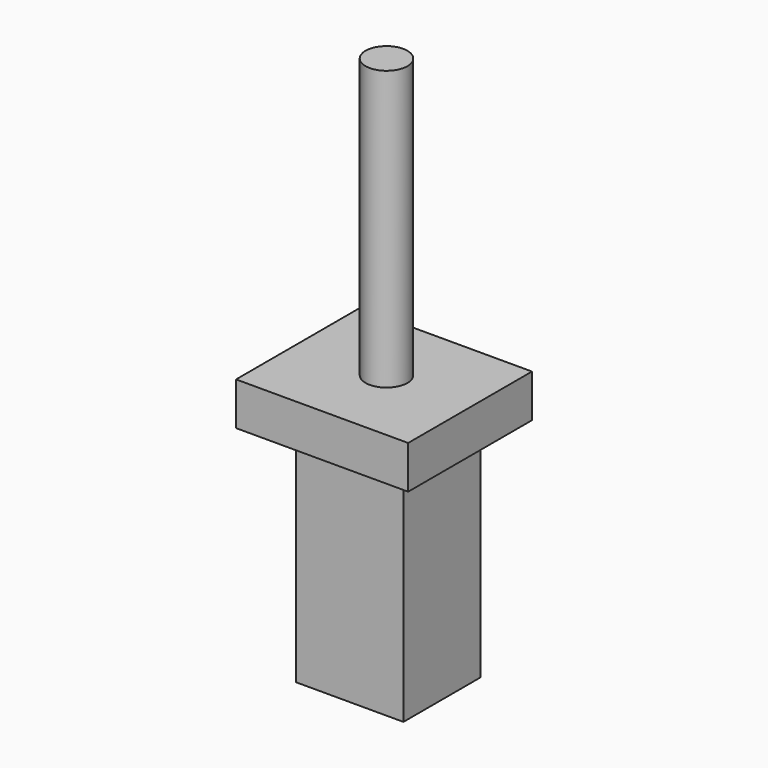
from build123d import *

# Parameters (mm, degrees)
F0_W      = 2.542533
F0_H      = 2.280801
F0_R      = 0.4953
F2_DEPTH  = 6.35
F1_W      = 4.075531
F1_H      = 3.664239
F3_DEPTH  = 1.016
F3_FACE_R = 0.4953
F4_DEPTH  = 7.62


with BuildPart() as f2:
    # F0 (on Top) → F2 (new body)
    with BuildSketch(Plane.XY):
        with Locations((0.025189, 0.020531)):
            Rectangle(F0_W, F0_H)
        Circle(F0_R, mode=Mode.SUBTRACT)
    extrude(amount=-F2_DEPTH)

    # F1 (on Top) → F3 (join)
    with BuildSketch(Plane.XY):
        with Locations((-0.030896, -0.035554)):
            Rectangle(F1_W, F1_H)
    extrude(amount=-F3_DEPTH)

    # F3_face (on face) → F4 (join)
    with BuildSketch(Plane(origin=(0, 0, -1.016), x_dir=(1, 0, 0), z_dir=(0, 0, -1))):
        Circle(F3_FACE_R)
    extrude(amount=-F4_DEPTH)


solid = f2.part
